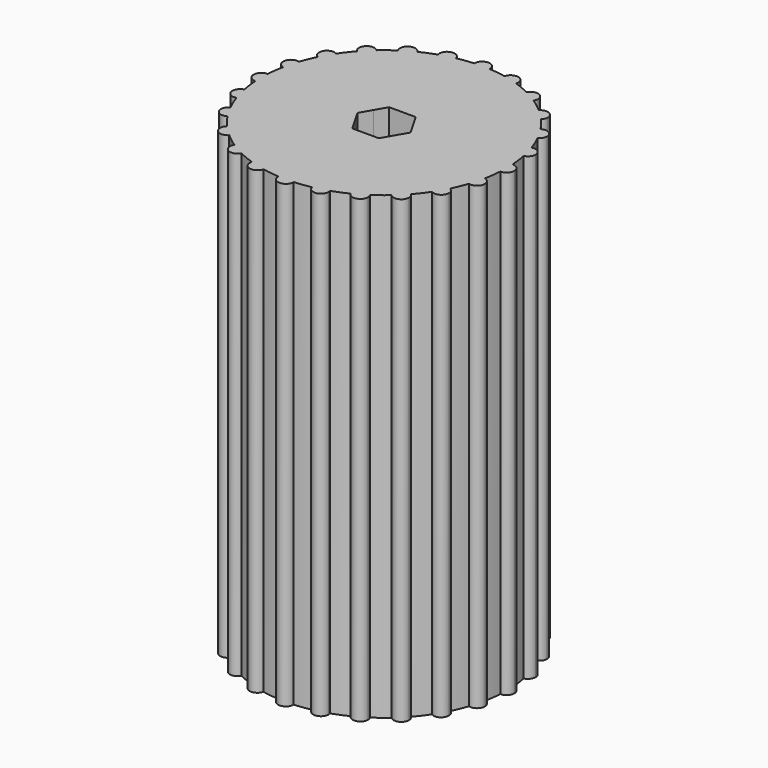
from build123d import *

# Parameters (mm, degrees)
F2_DEPTH = 19.05
F3_DEPTH = 6.35


with BuildPart() as f2:
    # F1 (on Top) → F2 (new body)
    with BuildSketch(Plane.XY):
        with BuildLine():
            ThreePointArc((5.070078125, -0.3173449328), (5.0775189254, -0.15875), (5.08, 0))
            ThreePointArc((5.08, 0), (5.0775189254, 0.15875), (5.070078125, 0.3173449328))
            ThreePointArc((5.070078125, 0.3173449328), (4.7625, 0), (5.070078125, -0.3173449328))
        make_face()
        with BuildLine():
            ThreePointArc((5.070078125, 0.3173449328), (5.0775189254, 0.15875), (5.08, 0))
            ThreePointArc((5.08, 0), (5.0775189254, -0.15875), (5.070078125, -0.3173449328))
            ThreePointArc((5.070078125, -0.3173449328), (5.3009706481, -0.22798733), (5.3975, 0))
            ThreePointArc((5.3975, 0), (5.3009706481, 0.22798733), (5.070078125, 0.3173449328))
        make_face()
        with BuildLine():
            ThreePointArc((5.070078125, -0.3173449328), (4.7625, 0), (5.070078125, 0.3173449328))
            ThreePointArc((5.070078125, 0.3173449328), (5.0365398958, 0.6630730565), (4.9794543147, 1.0057011124))
            ThreePointArc((4.9794543147, 1.0057011124), (4.6002217477, 1.2326257023), (4.8151844898, 1.6187644454))
            ThreePointArc((4.8151844898, 1.6187644454), (4.6933080252, 1.9440318364), (4.5494889218, 2.2602102889))
            ThreePointArc((4.5494889218, 2.2602102889), (4.1244459855, 2.38125), (4.232143989, 2.8098678361))
            ThreePointArc((4.232143989, 2.8098678361), (4.0302349687, 3.0925080594), (3.8094833773, 3.3606898693))
            ThreePointArc((3.8094833773, 3.3606898693), (3.3675960454, 3.3675960454), (3.3606898693, 3.8094833773))
            ThreePointArc((3.3606898693, 3.8094833773), (3.0925080594, 4.0302349687), (2.8098678361, 4.232143989))
            ThreePointArc((2.8098678361, 4.232143989), (2.38125, 4.1244459855), (2.2602102889, 4.5494889218))
            ThreePointArc((2.2602102889, 4.5494889218), (1.9440318364, 4.6933080252), (1.6187644454, 4.8151844898))
            ThreePointArc((1.6187644454, 4.8151844898), (1.2326257023, 4.6002217477), (1.0057011124, 4.9794543147))
            ThreePointArc((1.0057011124, 4.9794543147), (0.6630730565, 5.0365398958), (0.3173449328, 5.070078125))
            ThreePointArc((0.3173449328, 5.070078125), (0, 4.7625), (-0.3173449328, 5.070078125))
            ThreePointArc((-0.3173449328, 5.070078125), (-0.6630730565, 5.0365398958), (-1.0057011124, 4.9794543147))
            ThreePointArc((-1.0057011124, 4.9794543147), (-0.9994078318, 4.9434211065), (-0.9973007491, 4.9069031975))
            ThreePointArc((-0.9973007491, 4.9069031975), (-1.2684446468, 4.5928055029), (-1.6187644454, 4.8151844898))
            ThreePointArc((-1.6187644454, 4.8151844898), (-1.9440318364, 4.6933080252), (-2.2602102889, 4.5494889218))
            ThreePointArc((-2.2602102889, 4.5494889218), (-2.2320718564, 4.476781581), (-2.2225, 4.3994090512))
            ThreePointArc((-2.2225, 4.3994090512), (-2.4530425045, 4.0940491914), (-2.8098678361, 4.232143989))
            ThreePointArc((-2.8098678361, 4.232143989), (-3.0925080594, 4.0302349687), (-3.3606898693, 3.8094833773))
            ThreePointArc((-3.3606898693, 3.8094833773), (-3.2969078145, 3.7090057335), (-3.2746024484, 3.5921024484))
            ThreePointArc((-3.2746024484, 3.5921024484), (-3.4660314266, 3.3007052153), (-3.8094833773, 3.3606898693))
            ThreePointArc((-3.8094833773, 3.3606898693), (-4.0302349687, 3.0925080594), (-4.232143989, 2.8098678361))
            ThreePointArc((-4.232143989, 2.8098678361), (-4.1219987889, 2.6944337928), (-4.0819090512, 2.54))
            ThreePointArc((-4.0819090512, 2.54), (-4.2363816132, 2.267551281), (-4.5494889218, 2.2602102889))
            ThreePointArc((-4.5494889218, 2.2602102889), (-4.6933080252, 1.9440318364), (-4.8151844898, 1.6187644454))
            ThreePointArc((-4.8151844898, 1.6187644454), (-4.6520238734, 1.5041226447), (-4.5894031975, 1.3148007491))
            ThreePointArc((-4.5894031975, 1.3148007491), (-4.709708788, 1.0659622174), (-4.9794543147, 1.0057011124))
            ThreePointArc((-4.9794543147, 1.0057011124), (-5.0365398958, 0.6630730565), (-5.070078125, 0.3173449328))
            ThreePointArc((-5.070078125, 0.3173449328), (-4.85201267, 0.2209706481), (-4.7625, 0))
            ThreePointArc((-4.7625, 0), (-4.85201267, -0.2209706481), (-5.070078125, -0.3173449328))
            ThreePointArc((-5.070078125, -0.3173449328), (-5.0365398958, -0.6630730565), (-4.9794543147, -1.0057011124))
            ThreePointArc((-4.9794543147, -1.0057011124), (-4.709708788, -1.0659622174), (-4.5894031975, -1.3148007491))
            ThreePointArc((-4.5894031975, -1.3148007491), (-4.6520238734, -1.5041226447), (-4.8151844898, -1.6187644454))
            ThreePointArc((-4.8151844898, -1.6187644454), (-4.6933080252, -1.9440318364), (-4.5494889218, -2.2602102889))
            ThreePointArc((-4.5494889218, -2.2602102889), (-4.2363816132, -2.267551281), (-4.0819090512, -2.54))
            ThreePointArc((-4.0819090512, -2.54), (-4.1219987889, -2.6944337928), (-4.232143989, -2.8098678361))
            ThreePointArc((-4.232143989, -2.8098678361), (-4.0302349687, -3.0925080594), (-3.8094833773, -3.3606898693))
            ThreePointArc((-3.8094833773, -3.3606898693), (-3.4660314266, -3.3007052153), (-3.2746024484, -3.5921024484))
            ThreePointArc((-3.2746024484, -3.5921024484), (-3.2969078145, -3.7090057335), (-3.3606898693, -3.8094833773))
            ThreePointArc((-3.3606898693, -3.8094833773), (-3.0925080594, -4.0302349687), (-2.8098678361, -4.232143989))
            ThreePointArc((-2.8098678361, -4.232143989), (-2.4530425045, -4.0940491914), (-2.2225, -4.3994090512))
            ThreePointArc((-2.2225, -4.3994090512), (-2.2320718564, -4.476781581), (-2.2602102889, -4.5494889218))
            ThreePointArc((-2.2602102889, -4.5494889218), (-1.9440318364, -4.6933080252), (-1.6187644454, -4.8151844898))
            ThreePointArc((-1.6187644454, -4.8151844898), (-1.2684446468, -4.5928055029), (-0.9973007491, -4.9069031975))
            ThreePointArc((-0.9973007491, -4.9069031975), (-0.9994078318, -4.9434211065), (-1.0057011124, -4.9794543147))
            ThreePointArc((-1.0057011124, -4.9794543147), (-0.6630730565, -5.0365398958), (-0.3173449328, -5.070078125))
            ThreePointArc((-0.3173449328, -5.070078125), (0, -4.7625), (0.3173449328, -5.070078125))
            ThreePointArc((0.3173449328, -5.070078125), (0.6630730565, -5.0365398958), (1.0057011124, -4.9794543147))
            ThreePointArc((1.0057011124, -4.9794543147), (1.2326257023, -4.6002217477), (1.6187644454, -4.8151844898))
            ThreePointArc((1.6187644454, -4.8151844898), (1.9440318364, -4.6933080252), (2.2602102889, -4.5494889218))
            ThreePointArc((2.2602102889, -4.5494889218), (2.38125, -4.1244459855), (2.8098678361, -4.232143989))
            ThreePointArc((2.8098678361, -4.232143989), (3.0925080594, -4.0302349687), (3.3606898693, -3.8094833773))
            ThreePointArc((3.3606898693, -3.8094833773), (3.3675960454, -3.3675960454), (3.8094833773, -3.3606898693))
            ThreePointArc((3.8094833773, -3.3606898693), (4.0302349687, -3.0925080594), (4.232143989, -2.8098678361))
            ThreePointArc((4.232143989, -2.8098678361), (4.1244459855, -2.38125), (4.5494889218, -2.2602102889))
            ThreePointArc((4.5494889218, -2.2602102889), (4.6933080252, -1.9440318364), (4.8151844898, -1.6187644454))
            ThreePointArc((4.8151844898, -1.6187644454), (4.6002217477, -1.2326257023), (4.9794543147, -1.0057011124))
            ThreePointArc((4.9794543147, -1.0057011124), (5.0365398958, -0.6630730565), (5.070078125, -0.3173449328))
        make_face()
        with BuildLine():
            ThreePointArc((4.8151844898, 1.6187644454), (4.6002217477, 1.2326257023), (4.9794543147, 1.0057011124))
            ThreePointArc((4.9794543147, 1.0057011124), (4.9069031975, 1.3148007491), (4.8151844898, 1.6187644454))
        make_face()
        with BuildLine():
            ThreePointArc((4.8151844898, 1.6187644454), (4.9069031975, 1.3148007491), (4.9794543147, 1.0057011124))
            ThreePointArc((4.9794543147, 1.0057011124), (5.1557417292, 1.1176063396), (5.2244031975, 1.3148007491))
            ThreePointArc((5.2244031975, 1.3148007491), (5.0962250931, 1.5696800732), (4.8151844898, 1.6187644454))
        make_face()
        with BuildLine():
            ThreePointArc((5.2244031975, -1.3148007491), (5.1557417292, -1.1176063396), (4.9794543147, -1.0057011124))
            ThreePointArc((4.9794543147, -1.0057011124), (4.9069031975, -1.3148007491), (4.8151844898, -1.6187644454))
            ThreePointArc((4.8151844898, -1.6187644454), (5.0962250931, -1.5696800732), (5.2244031975, -1.3148007491))
        make_face()
        with BuildLine():
            ThreePointArc((4.8151844898, -1.6187644454), (4.9069031975, -1.3148007491), (4.9794543147, -1.0057011124))
            ThreePointArc((4.9794543147, -1.0057011124), (4.6002217477, -1.2326257023), (4.8151844898, -1.6187644454))
        make_face()
        with BuildLine():
            ThreePointArc((4.232143989, 2.8098678361), (4.1244459855, 2.38125), (4.5494889218, 2.2602102889))
            ThreePointArc((4.5494889218, 2.2602102889), (4.3994090512, 2.54), (4.232143989, 2.8098678361))
        make_face()
        with BuildLine():
            ThreePointArc((4.232143989, 2.8098678361), (4.3994090512, 2.54), (4.5494889218, 2.2602102889))
            ThreePointArc((4.5494889218, 2.2602102889), (4.6718577702, 2.376972562), (4.7169090512, 2.54))
            ThreePointArc((4.7169090512, 2.54), (4.5538428441, 2.8174102623), (4.232143989, 2.8098678361))
        make_face()
        with BuildLine():
            ThreePointArc((4.7169090512, -2.54), (4.6718577702, -2.376972562), (4.5494889218, -2.2602102889))
            ThreePointArc((4.5494889218, -2.2602102889), (4.3994090512, -2.54), (4.232143989, -2.8098678361))
            ThreePointArc((4.232143989, -2.8098678361), (4.5538428441, -2.8174102623), (4.7169090512, -2.54))
        make_face()
        with BuildLine():
            ThreePointArc((4.232143989, -2.8098678361), (4.3994090512, -2.54), (4.5494889218, -2.2602102889))
            ThreePointArc((4.5494889218, -2.2602102889), (4.1244459855, -2.38125), (4.232143989, -2.8098678361))
        make_face()
        with BuildLine():
            ThreePointArc((3.3606898693, 3.8094833773), (3.3675960454, 3.3675960454), (3.8094833773, 3.3606898693))
            ThreePointArc((3.8094833773, 3.3606898693), (3.5921024484, 3.5921024484), (3.3606898693, 3.8094833773))
        make_face()
        with BuildLine():
            ThreePointArc((3.3606898693, 3.8094833773), (3.5921024484, 3.5921024484), (3.8094833773, 3.3606898693))
            ThreePointArc((3.8094833773, 3.3606898693), (3.8834996815, 3.4660314266), (3.9096024484, 3.5921024484))
            ThreePointArc((3.9096024484, 3.5921024484), (3.7090057335, 3.8872970824), (3.3606898693, 3.8094833773))
        make_face()
        with BuildLine():
            ThreePointArc((3.9096024484, -3.5921024484), (3.8834996815, -3.4660314266), (3.8094833773, -3.3606898693))
            ThreePointArc((3.8094833773, -3.3606898693), (3.5921024484, -3.5921024484), (3.3606898693, -3.8094833773))
            ThreePointArc((3.3606898693, -3.8094833773), (3.7090057335, -3.8872970824), (3.9096024484, -3.5921024484))
        make_face()
        with BuildLine():
            ThreePointArc((3.3606898693, -3.8094833773), (3.5921024484, -3.5921024484), (3.8094833773, -3.3606898693))
            ThreePointArc((3.8094833773, -3.3606898693), (3.3675960454, -3.3675960454), (3.3606898693, -3.8094833773))
        make_face()
        with BuildLine():
            ThreePointArc((2.2602102889, 4.5494889218), (2.38125, 4.1244459855), (2.8098678361, 4.232143989))
            ThreePointArc((2.8098678361, 4.232143989), (2.54, 4.3994090512), (2.2602102889, 4.5494889218))
        make_face()
        with BuildLine():
            ThreePointArc((2.2602102889, 4.5494889218), (2.54, 4.3994090512), (2.8098678361, 4.232143989))
            ThreePointArc((2.8098678361, 4.232143989), (2.8453598598, 4.3124515557), (2.8575, 4.3994090512))
            ThreePointArc((2.8575, 4.3994090512), (2.6173725298, 4.7073371949), (2.2602102889, 4.5494889218))
        make_face()
        with BuildLine():
            ThreePointArc((2.8575, -4.3994090512), (2.8453598598, -4.3124515557), (2.8098678361, -4.232143989))
            ThreePointArc((2.8098678361, -4.232143989), (2.54, -4.3994090512), (2.2602102889, -4.5494889218))
            ThreePointArc((2.2602102889, -4.5494889218), (2.6173725298, -4.7073371949), (2.8575, -4.3994090512))
        make_face()
        with BuildLine():
            ThreePointArc((2.2602102889, -4.5494889218), (2.54, -4.3994090512), (2.8098678361, -4.232143989))
            ThreePointArc((2.8098678361, -4.232143989), (2.38125, -4.1244459855), (2.2602102889, -4.5494889218))
        make_face()
        with BuildLine():
            ThreePointArc((1.0057011124, 4.9794543147), (1.2326257023, 4.6002217477), (1.6187644454, 4.8151844898))
            ThreePointArc((1.6187644454, 4.8151844898), (1.3148007491, 4.9069031975), (1.0057011124, 4.9794543147))
        make_face()
        with BuildLine():
            ThreePointArc((1.0057011124, 4.9794543147), (1.3148007491, 4.9069031975), (1.6187644454, 4.8151844898))
            ThreePointArc((1.6187644454, 4.8151844898), (1.6288984438, 4.8605470953), (1.6323007491, 4.9069031975))
            ThreePointArc((1.6323007491, 4.9069031975), (1.3513186581, 5.2222961149), (1.0057011124, 4.9794543147))
        make_face()
        with BuildLine():
            ThreePointArc((1.6323007491, -4.9069031975), (1.6288984438, -4.8605470953), (1.6187644454, -4.8151844898))
            ThreePointArc((1.6187644454, -4.8151844898), (1.3148007491, -4.9069031975), (1.0057011124, -4.9794543147))
            ThreePointArc((1.0057011124, -4.9794543147), (1.3513186581, -5.2222961149), (1.6323007491, -4.9069031975))
        make_face()
        with BuildLine():
            ThreePointArc((1.0057011124, -4.9794543147), (1.3148007491, -4.9069031975), (1.6187644454, -4.8151844898))
            ThreePointArc((1.6187644454, -4.8151844898), (1.2326257023, -4.6002217477), (1.0057011124, -4.9794543147))
        make_face()
        with BuildLine():
            ThreePointArc((-0.3173449328, 5.070078125), (0, 4.7625), (0.3173449328, 5.070078125))
            ThreePointArc((0.3173449328, 5.070078125), (0, 5.08), (-0.3173449328, 5.070078125))
        make_face()
        with BuildLine():
            ThreePointArc((-0.3173449328, 5.070078125), (0, 5.08), (0.3173449328, 5.070078125))
            ThreePointArc((0.3173449328, 5.070078125), (0.3174612308, 5.0750384567), (0.3175, 5.08))
            ThreePointArc((0.3175, 5.08), (-0.0049615433, 5.3974612308), (-0.3173449328, 5.070078125))
        make_face()
        with BuildLine():
            ThreePointArc((0.3175, -5.08), (0.3174612308, -5.0750384567), (0.3173449328, -5.070078125))
            ThreePointArc((0.3173449328, -5.070078125), (0, -5.08), (-0.3173449328, -5.070078125))
            ThreePointArc((-0.3173449328, -5.070078125), (-0.0049615433, -5.3974612308), (0.3175, -5.08))
        make_face()
        with BuildLine():
            ThreePointArc((-0.3173449328, -5.070078125), (0, -5.08), (0.3173449328, -5.070078125))
            ThreePointArc((0.3173449328, -5.070078125), (0, -4.7625), (-0.3173449328, -5.070078125))
        make_face()
        with BuildLine():
            ThreePointArc((-0.9973007491, 4.9069031975), (-0.9994078318, 4.9434211065), (-1.0057011124, 4.9794543147))
            ThreePointArc((-1.0057011124, 4.9794543147), (-1.3148007491, 4.9069031975), (-1.6187644454, 4.8151844898))
            ThreePointArc((-1.6187644454, 4.8151844898), (-1.2684446468, 4.5928055029), (-0.9973007491, 4.9069031975))
        make_face()
        with BuildLine():
            ThreePointArc((-1.6187644454, 4.8151844898), (-1.3148007491, 4.9069031975), (-1.0057011124, 4.9794543147))
            ThreePointArc((-1.0057011124, 4.9794543147), (-1.3969757959, 5.2135846474), (-1.6187644454, 4.8151844898))
        make_face()
        with BuildLine():
            ThreePointArc((-1.6187644454, -4.8151844898), (-1.3969757959, -5.2135846474), (-1.0057011124, -4.9794543147))
            ThreePointArc((-1.0057011124, -4.9794543147), (-1.3148007491, -4.9069031975), (-1.6187644454, -4.8151844898))
        make_face()
        with BuildLine():
            ThreePointArc((-1.6187644454, -4.8151844898), (-1.3148007491, -4.9069031975), (-1.0057011124, -4.9794543147))
            ThreePointArc((-1.0057011124, -4.9794543147), (-0.9994078318, -4.9434211065), (-0.9973007491, -4.9069031975))
            ThreePointArc((-0.9973007491, -4.9069031975), (-1.2684446468, -4.5928055029), (-1.6187644454, -4.8151844898))
        make_face()
        with BuildLine():
            ThreePointArc((-2.2225, 4.3994090512), (-2.2320718564, 4.476781581), (-2.2602102889, 4.5494889218))
            ThreePointArc((-2.2602102889, 4.5494889218), (-2.54, 4.3994090512), (-2.8098678361, 4.232143989))
            ThreePointArc((-2.8098678361, 4.232143989), (-2.4530425045, 4.0940491914), (-2.2225, 4.3994090512))
        make_face()
        with BuildLine():
            ThreePointArc((-2.8098678361, 4.232143989), (-2.54, 4.3994090512), (-2.2602102889, 4.5494889218))
            ThreePointArc((-2.2602102889, 4.5494889218), (-2.69875, 4.6743721169), (-2.8098678361, 4.232143989))
        make_face()
        with BuildLine():
            ThreePointArc((-2.8098678361, -4.232143989), (-2.69875, -4.6743721169), (-2.2602102889, -4.5494889218))
            ThreePointArc((-2.2602102889, -4.5494889218), (-2.54, -4.3994090512), (-2.8098678361, -4.232143989))
        make_face()
        with BuildLine():
            ThreePointArc((-2.8098678361, -4.232143989), (-2.54, -4.3994090512), (-2.2602102889, -4.5494889218))
            ThreePointArc((-2.2602102889, -4.5494889218), (-2.2320718564, -4.476781581), (-2.2225, -4.3994090512))
            ThreePointArc((-2.2225, -4.3994090512), (-2.4530425045, -4.0940491914), (-2.8098678361, -4.232143989))
        make_face()
        with BuildLine():
            ThreePointArc((-3.2746024484, 3.5921024484), (-3.2969078145, 3.7090057335), (-3.3606898693, 3.8094833773))
            ThreePointArc((-3.3606898693, 3.8094833773), (-3.5921024484, 3.5921024484), (-3.8094833773, 3.3606898693))
            ThreePointArc((-3.8094833773, 3.3606898693), (-3.4660314266, 3.3007052153), (-3.2746024484, 3.5921024484))
        make_face()
        with BuildLine():
            ThreePointArc((-3.8094833773, 3.3606898693), (-3.5921024484, 3.5921024484), (-3.3606898693, 3.8094833773))
            ThreePointArc((-3.3606898693, 3.8094833773), (-3.8166088515, 3.8166088515), (-3.8094833773, 3.3606898693))
        make_face()
        with BuildLine():
            ThreePointArc((-3.8094833773, -3.3606898693), (-3.8166088515, -3.8166088515), (-3.3606898693, -3.8094833773))
            ThreePointArc((-3.3606898693, -3.8094833773), (-3.5921024484, -3.5921024484), (-3.8094833773, -3.3606898693))
        make_face()
        with BuildLine():
            ThreePointArc((-3.8094833773, -3.3606898693), (-3.5921024484, -3.5921024484), (-3.3606898693, -3.8094833773))
            ThreePointArc((-3.3606898693, -3.8094833773), (-3.2969078145, -3.7090057335), (-3.2746024484, -3.5921024484))
            ThreePointArc((-3.2746024484, -3.5921024484), (-3.4660314266, -3.3007052153), (-3.8094833773, -3.3606898693))
        make_face()
        with BuildLine():
            ThreePointArc((-4.0819090512, 2.54), (-4.1219987889, 2.6944337928), (-4.232143989, 2.8098678361))
            ThreePointArc((-4.232143989, 2.8098678361), (-4.3994090512, 2.54), (-4.5494889218, 2.2602102889))
            ThreePointArc((-4.5494889218, 2.2602102889), (-4.2363816132, 2.267551281), (-4.0819090512, 2.54))
        make_face()
        with BuildLine():
            ThreePointArc((-4.5494889218, 2.2602102889), (-4.3994090512, 2.54), (-4.232143989, 2.8098678361))
            ThreePointArc((-4.232143989, 2.8098678361), (-4.6743721169, 2.69875), (-4.5494889218, 2.2602102889))
        make_face()
        with BuildLine():
            ThreePointArc((-4.5494889218, -2.2602102889), (-4.6743721169, -2.69875), (-4.232143989, -2.8098678361))
            ThreePointArc((-4.232143989, -2.8098678361), (-4.3994090512, -2.54), (-4.5494889218, -2.2602102889))
        make_face()
        with BuildLine():
            ThreePointArc((-4.5494889218, -2.2602102889), (-4.3994090512, -2.54), (-4.232143989, -2.8098678361))
            ThreePointArc((-4.232143989, -2.8098678361), (-4.1219987889, -2.6944337928), (-4.0819090512, -2.54))
            ThreePointArc((-4.0819090512, -2.54), (-4.2363816132, -2.267551281), (-4.5494889218, -2.2602102889))
        make_face()
        with BuildLine():
            ThreePointArc((-4.5894031975, 1.3148007491), (-4.6520238734, 1.5041226447), (-4.8151844898, 1.6187644454))
            ThreePointArc((-4.8151844898, 1.6187644454), (-4.9069031975, 1.3148007491), (-4.9794543147, 1.0057011124))
            ThreePointArc((-4.9794543147, 1.0057011124), (-4.709708788, 1.0659622174), (-4.5894031975, 1.3148007491))
        make_face()
        with BuildLine():
            ThreePointArc((-4.9794543147, 1.0057011124), (-4.9069031975, 1.3148007491), (-4.8151844898, 1.6187644454))
            ThreePointArc((-4.8151844898, 1.6187644454), (-5.2135846474, 1.3969757959), (-4.9794543147, 1.0057011124))
        make_face()
        with BuildLine():
            ThreePointArc((-4.9794543147, -1.0057011124), (-5.2135846474, -1.3969757959), (-4.8151844898, -1.6187644454))
            ThreePointArc((-4.8151844898, -1.6187644454), (-4.9069031975, -1.3148007491), (-4.9794543147, -1.0057011124))
        make_face()
        with BuildLine():
            ThreePointArc((-4.9794543147, -1.0057011124), (-4.9069031975, -1.3148007491), (-4.8151844898, -1.6187644454))
            ThreePointArc((-4.8151844898, -1.6187644454), (-4.6520238734, -1.5041226447), (-4.5894031975, -1.3148007491))
            ThreePointArc((-4.5894031975, -1.3148007491), (-4.709708788, -1.0659622174), (-4.9794543147, -1.0057011124))
        make_face()
        with BuildLine():
            ThreePointArc((-4.7625, 0), (-4.85201267, 0.2209706481), (-5.070078125, 0.3173449328))
            ThreePointArc((-5.070078125, 0.3173449328), (-5.08, 0), (-5.070078125, -0.3173449328))
            ThreePointArc((-5.070078125, -0.3173449328), (-4.85201267, -0.2209706481), (-4.7625, 0))
        make_face()
        with BuildLine():
            ThreePointArc((-5.070078125, -0.3173449328), (-5.08, 0), (-5.070078125, 0.3173449328))
            ThreePointArc((-5.070078125, 0.3173449328), (-5.3975, 0), (-5.070078125, -0.3173449328))
        make_face()
    extrude(amount=-F2_DEPTH)

    # F0 (on Top) → F3 (cut)
    with BuildSketch(Plane.XY):
        with BuildLine():
            ThreePointArc((0.8248892073, -0.4762499824), (0.9200443522, -0.2465251306), (0.9525, 0))
            ThreePointArc((0.9525, 0), (0.9200443522, 0.2465251306), (0.8248892073, 0.4762499824))
            ThreePointArc((0.8248892073, 0.4762499824), (0.4762500088, 0.824889192), (0, 0.9525))
            ThreePointArc((0, 0.9525), (-0.4762500088, 0.824889192), (-0.8248892073, 0.4762499824))
            ThreePointArc((-0.8248892073, 0.4762499824), (-0.9525, 0), (-0.8248892073, -0.4762499824))
            ThreePointArc((-0.8248892073, -0.4762499824), (-0.4762500088, -0.824889192), (0, -0.9525))
            ThreePointArc((0, -0.9525), (0.4762500088, -0.824889192), (0.8248892073, -0.4762499824))
        make_face()
        with BuildLine():
            ThreePointArc((0.8248892073, 0.4762499824), (0.9200443522, 0.2465251306), (0.9525, 0))
            ThreePointArc((0.9525, 0), (0.9200443522, -0.2465251306), (0.8248892073, -0.4762499824))
            Line((0.8248892073, -0.4762499824), (1.0998522628, 0))
            Line((1.0998522628, 0), (0.8248892073, 0.4762499824))
        make_face()
        with BuildLine():
            ThreePointArc((0, 0.9525), (0.4762500088, 0.824889192), (0.8248892073, 0.4762499824))
            Line((0.8248892073, 0.4762499824), (0.5499261314, 0.9525))
            Line((0.5499261314, 0.9525), (0, 0.9525))
        make_face()
        with BuildLine():
            Line((0.5499261314, -0.9525), (0.8248892073, -0.4762499824))
            ThreePointArc((0.8248892073, -0.4762499824), (0.4762500088, -0.824889192), (0, -0.9525))
            Line((0, -0.9525), (0.5499261314, -0.9525))
        make_face()
        with BuildLine():
            ThreePointArc((-0.8248892073, 0.4762499824), (-0.4762500088, 0.824889192), (0, 0.9525))
            Line((0, 0.9525), (-0.5499261314, 0.9525))
            Line((-0.5499261314, 0.9525), (-0.8248892073, 0.4762499824))
        make_face()
        with BuildLine():
            Line((-0.5499261314, -0.9525), (0, -0.9525))
            ThreePointArc((0, -0.9525), (-0.4762500088, -0.824889192), (-0.8248892073, -0.4762499824))
            Line((-0.8248892073, -0.4762499824), (-0.5499261314, -0.9525))
        make_face()
        with BuildLine():
            ThreePointArc((-0.8248892073, -0.4762499824), (-0.9525, 0), (-0.8248892073, 0.4762499824))
            Line((-0.8248892073, 0.4762499824), (-1.0998522628, 0))
            Line((-1.0998522628, 0), (-0.8248892073, -0.4762499824))
        make_face()
    extrude(amount=-F3_DEPTH, mode=Mode.SUBTRACT)


solid = f2.part
